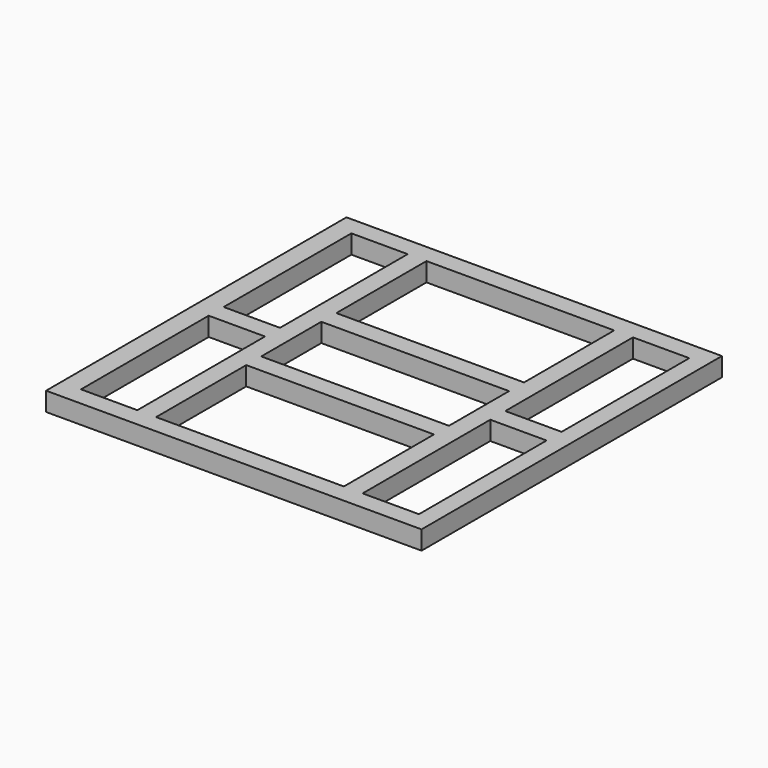
from build123d import *

# Parameters (mm, degrees)
F0_W     = 508
F0_H     = 508
F0_W_2   = 254
F0_H_2   = 25.4
F0_W_3   = 76.2
F1_DEPTH = 25.4


with BuildPart() as f1:
    # F0 (on Top) → F1 (new body)
    with BuildSketch(Plane.XY):
        with Locations((-138.001371, 50.8)):
            Rectangle(F0_W, F0_H)
        Polygon((-365.051775, 63.5), (-365.051775, 279.4), (-288.851775, 279.4), (-263.451775, 279.4), (-9.451775, 279.4), (15.948225, 279.4), (92.148225, 279.4), (92.148225, 63.5), (92.148225, 38.1), (92.148225, -177.8), (15.948225, -177.8), (-9.451775, -177.8), (-263.451775, -177.8), (-288.851775, -177.8), (-365.051775, -177.8), (-365.051775, 38.1), align=None, mode=Mode.SUBTRACT)
        Polygon((15.948225, 279.4), (-9.451775, 279.4), (-9.451775, 127), (-9.451775, 101.6), (-9.451775, 0), (-9.451775, -25.4), (-9.451775, -177.8), (15.948225, -177.8), (15.948225, 38.1), (15.948225, 63.5), align=None)
        with Locations((-136.451775, 114.3)):
            Rectangle(F0_W_2, F0_H_2)
        with Locations((-136.451775, -12.7)):
            Rectangle(F0_W_2, F0_H_2)
        with Locations((54.048225, 50.8)):
            Rectangle(F0_W_3, F0_H_2)
        with Locations((-326.951775, 50.8)):
            Rectangle(F0_W_3, F0_H_2)
        Polygon((-263.451775, 279.4), (-288.851775, 279.4), (-288.851775, 63.5), (-288.851775, 38.1), (-288.851775, -177.8), (-263.451775, -177.8), (-263.451775, -25.4), (-263.451775, 0), (-263.451775, 101.6), (-263.451775, 127), align=None)
    extrude(amount=F1_DEPTH)


solid = f1.part
